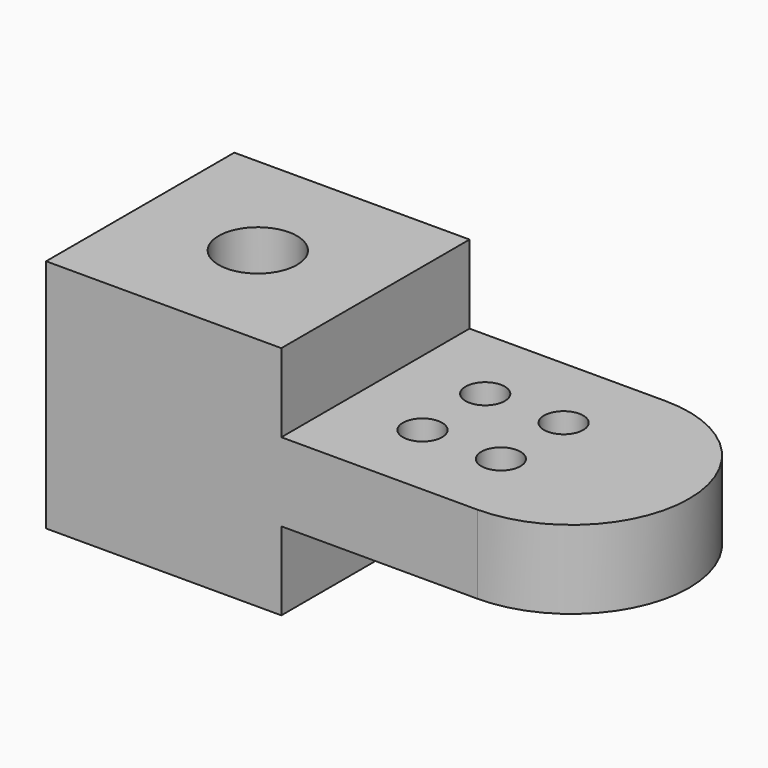
from build123d import *

# Parameters (mm, degrees)
F0_W     = 38.1
F0_H     = 38.1
F1_DEPTH = 19.05
F2_DEPTH = 6.35
F3_R     = 6.35
F4_DEPTH = 38.101
F5_R     = 3.175
F6_DEPTH = 25.4


with BuildPart() as f1:
    # F0 (on Top) → F1 (new body, symmetric)
    with BuildSketch(Plane.XY):
        with Locations((19.05, 19.05)):
            Rectangle(F0_W, F0_H)
    extrude(amount=F1_DEPTH, both=True)

    # F0 (on Top) → F2 (join, symmetric)
    with BuildSketch(Plane.XY):
        with BuildLine():
            Line((38.1, 38.1), (38.1, 0))
            Line((38.1, 0), (69.85, 0))
            ThreePointArc((69.85, 0), (88.9, 19.05), (69.85, 38.1))
            Line((69.85, 38.1), (38.1, 38.1))
        make_face()
    extrude(amount=F2_DEPTH, both=True)

    # F3 (on face) → F4 (cut, through all)
    with BuildSketch(Plane.XY.offset(19.05)):
        with Locations((19.05, 19.05)):
            Circle(F3_R)
    extrude(amount=-F4_DEPTH, mode=Mode.SUBTRACT)

    # F5 (on face) → F6 (cut)
    with BuildSketch(Plane.XY.offset(6.35)):
        with Locations((50.8, 12.7)):
            Circle(F5_R)
        with Locations((50.8, 25.4)):
            Circle(F5_R)
        with Locations((63.5, 25.4)):
            Circle(F5_R)
        with Locations((63.5, 12.7)):
            Circle(F5_R)
    extrude(amount=-F6_DEPTH, mode=Mode.SUBTRACT)


solid = f1.part
